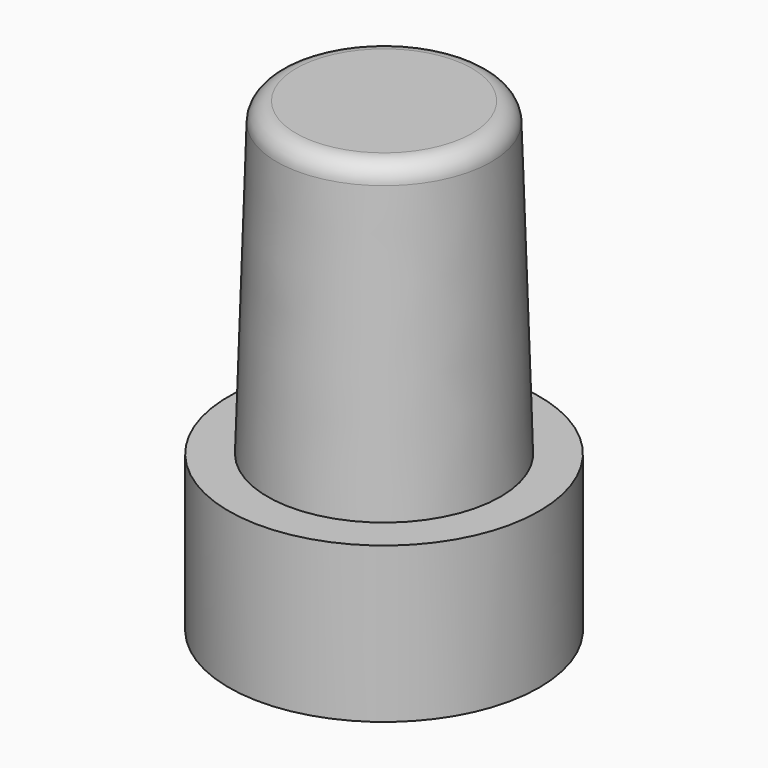
from build123d import *

# Parameters (mm, degrees)
F0_R     = 8
F1_DEPTH = 8
F2_R     = 6
F4_R     = 5.5
F6_R     = 1


with BuildPart() as f1:
    # F0 (on Top) → F1 (new body)
    with BuildSketch(Plane.XY):
        Circle(F0_R)
    extrude(amount=F1_DEPTH)

    # F2 (on face) → F5 section 0
    with BuildSketch(Plane.XY.offset(8)):
        Circle(F2_R)
    # F4 (on offset) → F5 section 1
    with BuildSketch(Plane.XY.offset(24)):
        Circle(F4_R)
    loft()

    # F6
    f6_edges = [f1.edges().sort_by_distance(p)[0] for p in [
        (-5.5, 0, 24),
    ]]
    fillet(f6_edges, radius=F6_R)


solid = f1.part
